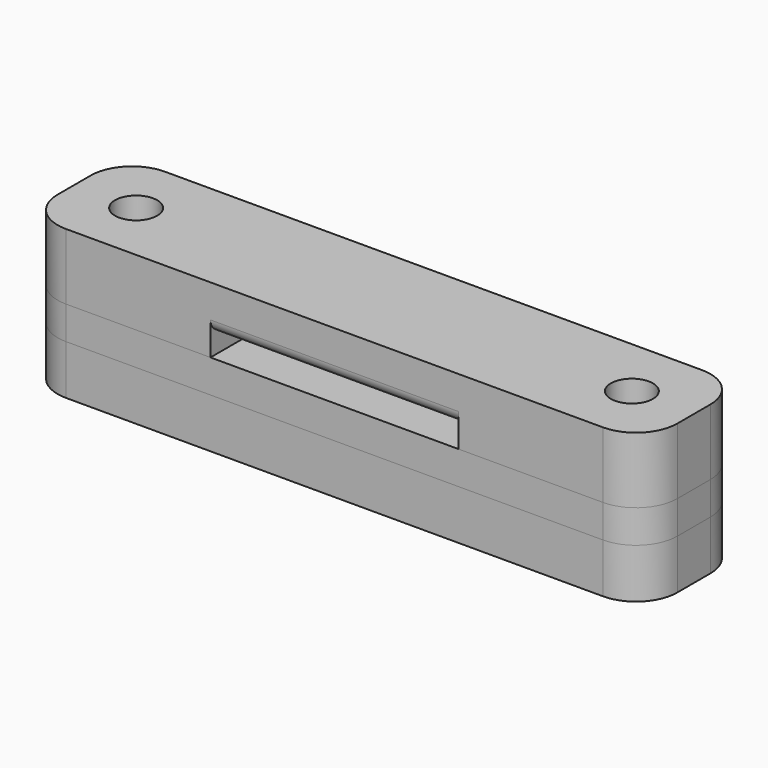
from build123d import *

# Parameters (mm, degrees)
F0_R     = 2.55
F1_DEPTH = 6
F3_DEPTH = 4
F4_R     = 2.55
F5_DEPTH = 4
F6_R     = 2.55
F7_DEPTH = 8
F8_W     = 30
F8_H     = 2.5
F9_DEPTH = 15.001
F10_R    = 1.5


with BuildPart() as f1:
    # F0 (on Top) → F1 (new body)
    with BuildSketch(Plane.XY):
        with BuildLine():
            Line((-32.5, -7.5), (32.5, -7.5))
            ThreePointArc((32.5, -7.5), (36.0355339059, -6.0355339059), (37.5, -2.5))
            Line((37.5, -2.5), (37.5, 2.5))
            ThreePointArc((37.5, 2.5), (36.0355339059, 6.0355339059), (32.5, 7.5))
            Line((32.5, 7.5), (-32.5, 7.5))
            ThreePointArc((-32.5, 7.5), (-36.0355339059, 6.0355339059), (-37.5, 2.5))
            Line((-37.5, 2.5), (-37.5, -2.5))
            ThreePointArc((-37.5, -2.5), (-36.0355339059, -6.0355339059), (-32.5, -7.5))
        make_face()
        with Locations((-30, 0)):
            Circle(F0_R, mode=Mode.SUBTRACT)
        with Locations((30, 0)):
            Circle(F0_R, mode=Mode.SUBTRACT)
    extrude(amount=F1_DEPTH)

    # F2 (on face) → F3 (cut)
    with BuildSketch(Plane(origin=(0, 0, 0), x_dir=(1, 0, 0), z_dir=(0, 0, -1))):
        Polygon((-32.3671361037, -4.1), (-27.6328638963, -4.1), (-25.2657277926, 0), (-27.6328638963, 4.1), (-32.3671361037, 4.1), (-34.7342722074, 0), align=None)
        Polygon((27.6328638963, -4.1), (32.3671361037, -4.1), (34.7342722074, 0), (32.3671361037, 4.1), (27.6328638963, 4.1), (25.2657277926, 0), align=None)
    extrude(amount=-F3_DEPTH, mode=Mode.SUBTRACT)


with BuildPart() as f5:
    # F4 (on face) → F5 (new body)
    with BuildSketch(Plane.XY.offset(6)):
        with BuildLine():
            Line((-32.5, -7.5), (32.5, -7.5))
            ThreePointArc((32.5, -7.5), (36.0355339059, -6.0355339059), (37.5, -2.5))
            Line((37.5, -2.5), (37.5, 2.5))
            ThreePointArc((37.5, 2.5), (36.0355339059, 6.0355339059), (32.5, 7.5))
            Line((32.5, 7.5), (-32.5, 7.5))
            ThreePointArc((-32.5, 7.5), (-36.0355339059, 6.0355339059), (-37.5, 2.5))
            Line((-37.5, 2.5), (-37.5, -2.5))
            ThreePointArc((-37.5, -2.5), (-36.0355339059, -6.0355339059), (-32.5, -7.5))
        make_face()
        with Locations((-30, 0)):
            Circle(F4_R, mode=Mode.SUBTRACT)
        with Locations((30, 0)):
            Circle(F4_R, mode=Mode.SUBTRACT)
    extrude(amount=F5_DEPTH)


with BuildPart() as f7:
    # F6 (on face) → F7 (new body)
    with BuildSketch(Plane.XY.offset(10)):
        with BuildLine():
            ThreePointArc((37.5, 2.5), (36.0355339059, 6.0355339059), (32.5, 7.5))
            Line((32.5, 7.5), (-32.5, 7.5))
            ThreePointArc((-32.5, 7.5), (-36.0355339059, 6.0355339059), (-37.5, 2.5))
            Line((-37.5, 2.5), (-37.5, -2.5))
            ThreePointArc((-37.5, -2.5), (-36.0355339059, -6.0355339059), (-32.5, -7.5))
            Line((-32.5, -7.5), (32.5, -7.5))
            ThreePointArc((32.5, -7.5), (36.0355339059, -6.0355339059), (37.5, -2.5))
            Line((37.5, -2.5), (37.5, 2.5))
        make_face()
        with Locations((-30, 0)):
            Circle(F6_R, mode=Mode.SUBTRACT)
        with Locations((30, 0)):
            Circle(F6_R, mode=Mode.SUBTRACT)
    extrude(amount=F7_DEPTH)

    # F8 (on face) → F9 (cut, through all)
    with BuildSketch(Plane.XZ.offset(7.5)):
        with Locations((0, 11.25)):
            Rectangle(F8_W, F8_H)
    extrude(amount=-F9_DEPTH, mode=Mode.SUBTRACT)

    # F10
    f10_edges = [f7.edges().sort_by_distance(p)[0] for p in [
        (0, 7.5, 12.5),
        (0, -7.5, 12.5),
    ]]
    fillet(f10_edges, radius=F10_R)


solid = Compound([f1.part, f5.part, f7.part])
